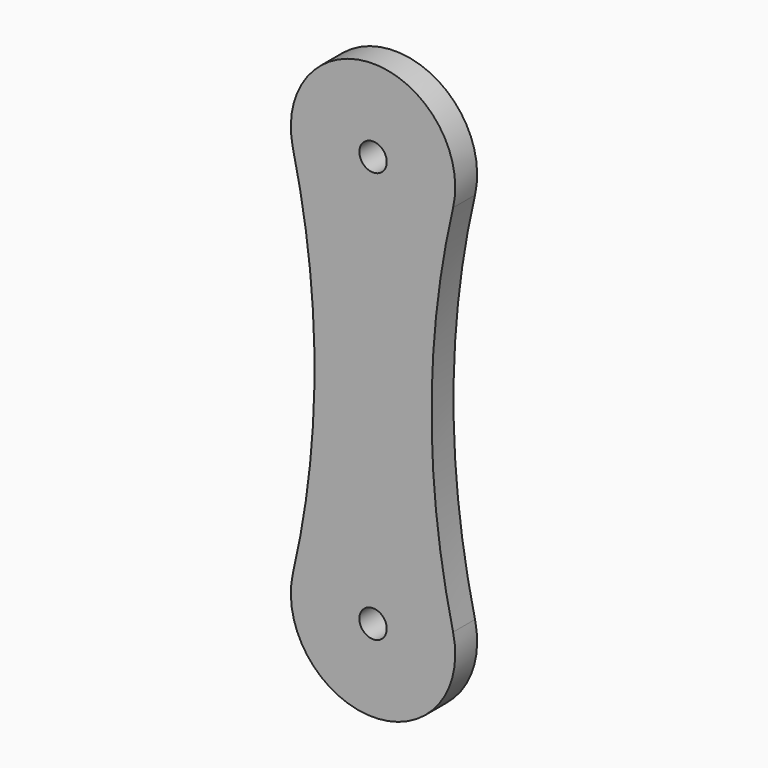
from build123d import *

# Parameters (mm, degrees)
F0_R     = 25.4
F1_DEPTH = 50.8


with BuildPart() as f1:
    # F0 (on Front) → F1 (new body)
    with BuildSketch(Plane.XZ):
        with BuildLine():
            ThreePointArc((-148.411867, 727.363636), (-108.530539, 381), (-148.411867, 34.636364))
            ThreePointArc((-148.411867, 34.636364), (0, -152.4), (148.411867, 34.636364))
            ThreePointArc((148.411867, 34.636364), (108.530539, 381), (148.411867, 727.363636))
            ThreePointArc((148.411867, 727.363636), (0, 914.4), (-148.411867, 727.363636))
        make_face()
        Circle(F0_R, mode=Mode.SUBTRACT)
        with Locations((0, 762)):
            Circle(F0_R, mode=Mode.SUBTRACT)
    extrude(amount=F1_DEPTH)


solid = f1.part
